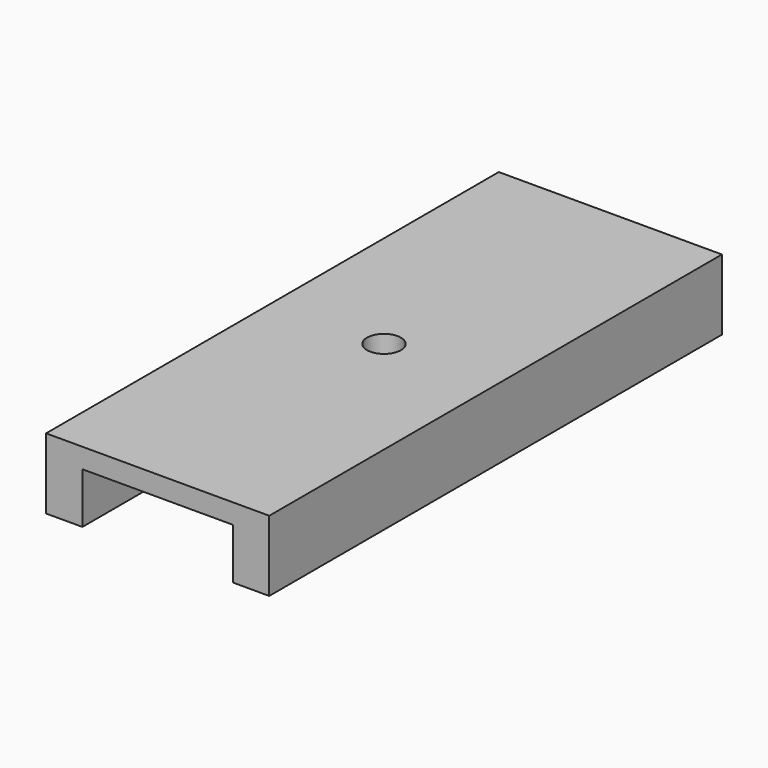
from build123d import *

# Parameters (mm, degrees)
F1_DEPTH = 25.4
F2_R     = 0.762
F3_DEPTH = 3.17092


with BuildPart() as f1:
    # F0 (on Front) → F1 (new body)
    with BuildSketch(Plane.XZ):
        Polygon((5.00888, -1.14046), (5.00888, 2.02946), (-5.00888, 2.02946), (-5.00888, -1.14046), (-3.3782, -1.14046), (-3.3782, 1.14046), (3.3782, 1.14046), (3.3782, -1.14046), align=None)
    extrude(amount=F1_DEPTH)

    # F2 (on face) → F3 (cut, through all)
    with BuildSketch(Plane.XY.offset(2.02946)):
        with Locations((0, -12.7)):
            Circle(F2_R)
    extrude(amount=-F3_DEPTH, mode=Mode.SUBTRACT)


solid = f1.part
